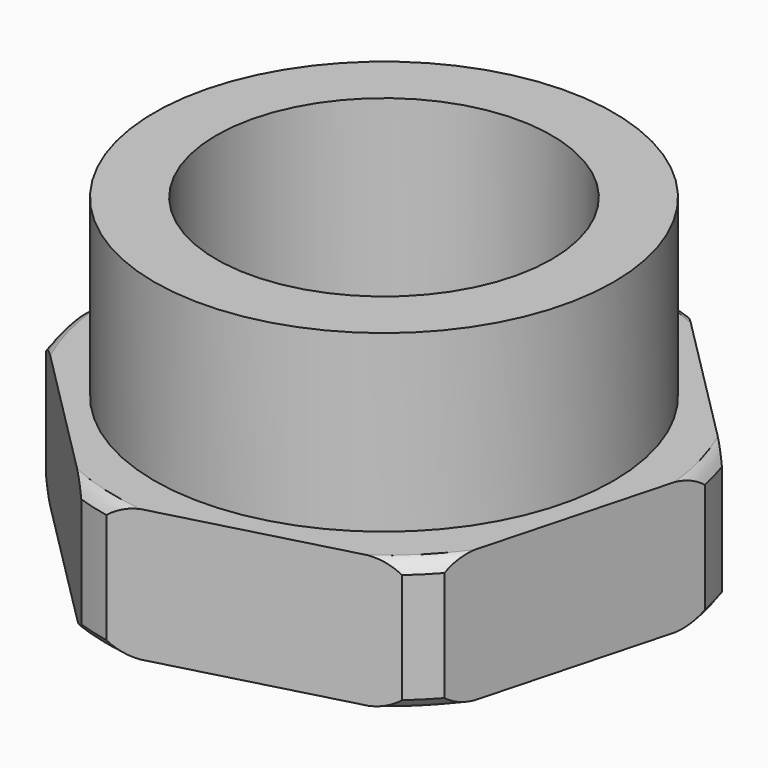
from build123d import *

# Parameters (mm, degrees)
F0_R      = 13
F0_R_2    = 9.5
F1_DEPTH  = 17.4
F2_R      = 14.2
F3_R      = 14.2
F4_DEPTH  = 7.5
F5_R      = 9.5
F6_DEPTH  = 25
F9_R      = 16.7063841851
F9_R_2    = 15.935
F10_DEPTH = 25


with BuildPart() as f1:
    # F0 (on Top) → F1 (new body)
    with BuildSketch(Plane.XY):
        Circle(F0_R)
        Circle(F0_R_2, mode=Mode.SUBTRACT)
    extrude(amount=F1_DEPTH)

    # F2 (on Top) + F3 (on face) → F4 (join)
    with BuildSketch(Plane.XY):
        Circle(F2_R)
    with BuildSketch(Plane.XY):
        Polygon((11.6155659336, -11.648343784), (15.8955445957, 4.2352032858), (4.2799786621, 15.8835470698), (-11.6155659336, 11.648343784), (-15.8955445957, -4.2352032858), (-4.2799786621, -15.8835470698), align=None)
        Circle(F3_R, mode=Mode.SUBTRACT)
    extrude(amount=F4_DEPTH)

    # F5 (on face) → F6 (cut)
    with BuildSketch(Plane.XY):
        Circle(F5_R)
    extrude(amount=F6_DEPTH, mode=Mode.SUBTRACT)

    # F7 (on face) → F8 (revolve, cut)
    with BuildSketch(Plane(origin=(-10.0877616289, -10.0593751778, 0), x_dir=(0.7061097972, -0.7081023614, 0), z_dir=(-0.7081023614, -0.7061097972, 0))):
        with BuildLine():
            ThreePointArc((-5.4935941607, 0), (-7.2307127812, 0.6945951349), (-8.2250423231, 2.2793198004))
            Line((-8.2250423231, 2.2793198004), (-8.2250423231, 0))
            Line((-8.2250423231, 0), (-5.4935941607, 0))
        make_face()
        with BuildLine():
            Line((-8.2250423231, 7.5), (-8.2250423231, 5.0454880111))
            ThreePointArc((-8.2250423231, 5.0454880111), (-7.2682177888, 6.7453516877), (-5.4694527589, 7.5))
            Line((-5.4694527589, 7.5), (-8.2250423231, 7.5))
        make_face()
    revolve(axis=Axis((0, 0, 0), (0, 0, -1)), mode=Mode.SUBTRACT)

    # F9 (on face) → F10 (cut)
    with BuildSketch(Plane(origin=(0, 0, 0), x_dir=(1, 0, 0), z_dir=(0, 0, -1))):
        Circle(F9_R)
        Circle(F9_R_2, mode=Mode.SUBTRACT)
    extrude(amount=-F10_DEPTH, mode=Mode.SUBTRACT)


solid = f1.part
